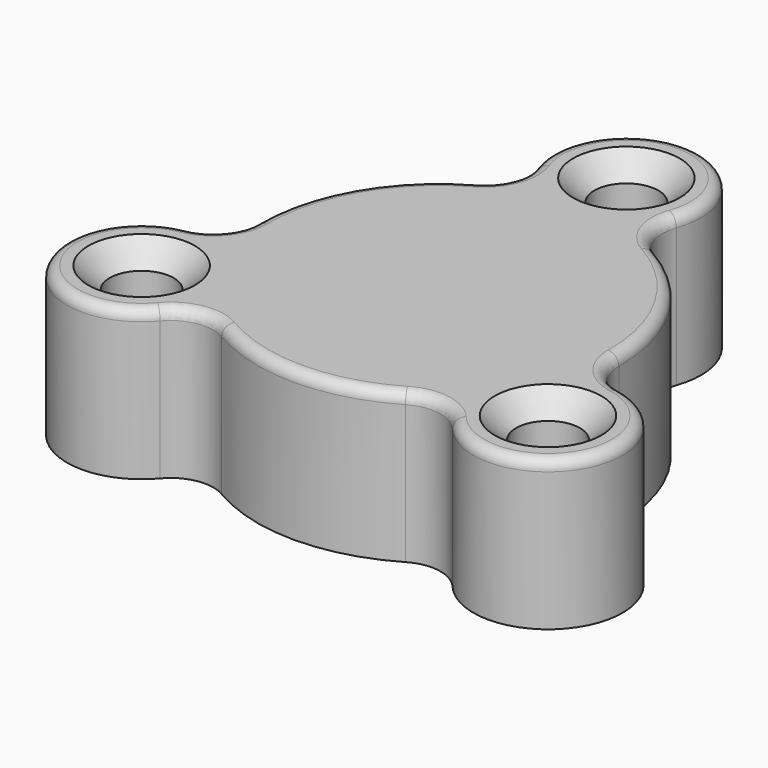
from build123d import *

# Parameters (mm, degrees)
F2_R     = 3.5
F2_R_2   = 1.5
F3_DEPTH = 7
F4_SIZE  = 1
F5_R     = 2
F6_R     = 0.5


with BuildPart() as f1:
    # F0 (on Right) → F1 (revolve)
    with BuildSketch(Plane.YZ):
        Polygon((-8.5, 7), (-8.5, 0), (-6.5, 0), (-6.5, 5), (-6, 5), (-6, 5.5), (0, 5.5), (0, 7), align=None)
    revolve(axis=Axis((0, 0, 6.25), (0, 0, -1)))

    # F2 (on Top) → F3 (join)
    with BuildSketch(Plane.XY):
        with Locations((0, 11)):
            Circle(F2_R)
        with Locations((0, 11)):
            Circle(F2_R_2, mode=Mode.SUBTRACT)
        with Locations((-9.5262794416, -5.5)):
            Circle(F2_R)
        with Locations((-9.5262794416, -5.5)):
            Circle(F2_R_2, mode=Mode.SUBTRACT)
        with Locations((9.5262794416, -5.5)):
            Circle(F2_R)
        with Locations((9.5262794416, -5.5)):
            Circle(F2_R_2, mode=Mode.SUBTRACT)
    extrude(amount=F3_DEPTH)

    # F4
    f4_edges = [f1.edges().sort_by_distance(p)[0] for p in [
        (-1.5, 11, 7),
        (-11.026279, -5.5, 7),
        (8.026279, -5.5, 7),
    ]]
    chamfer(f4_edges, length=F4_SIZE)

    # F5
    f5_edges = [f1.edges().sort_by_distance(p)[0] for p in [
        (-2.13588, 8.227273, 3.5),
        (2.13588, 8.227273, 3.5),
        (-6.057087, -5.963363, 3.5),
        (-8.192967, -2.26391, 3.5),
        (6.057087, -5.963363, 3.5),
        (8.192967, -2.26391, 3.5),
    ]]
    fillet(f5_edges, radius=F5_R)

    # F6
    f6_edges = [f1.edges().sort_by_distance(p)[0] for p in [
        (0, -8.5, 7),
        (-5.660825, -7.077944, 7),
        (-8.960092, -1.363447, 7),
        (-12.557368, -7.25, 7),
        (-7.361216, 4.25, 7),
        (-3.299266, 8.44139, 7),
        (3.299266, 8.44139, 7),
        (0, 14.5, 7),
        (7.361216, 4.25, 7),
        (5.660825, -7.077944, 7),
        (8.960092, -1.363447, 7),
        (12.557368, -7.25, 7),
    ]]
    fillet(f6_edges, radius=F6_R)


solid = f1.part
